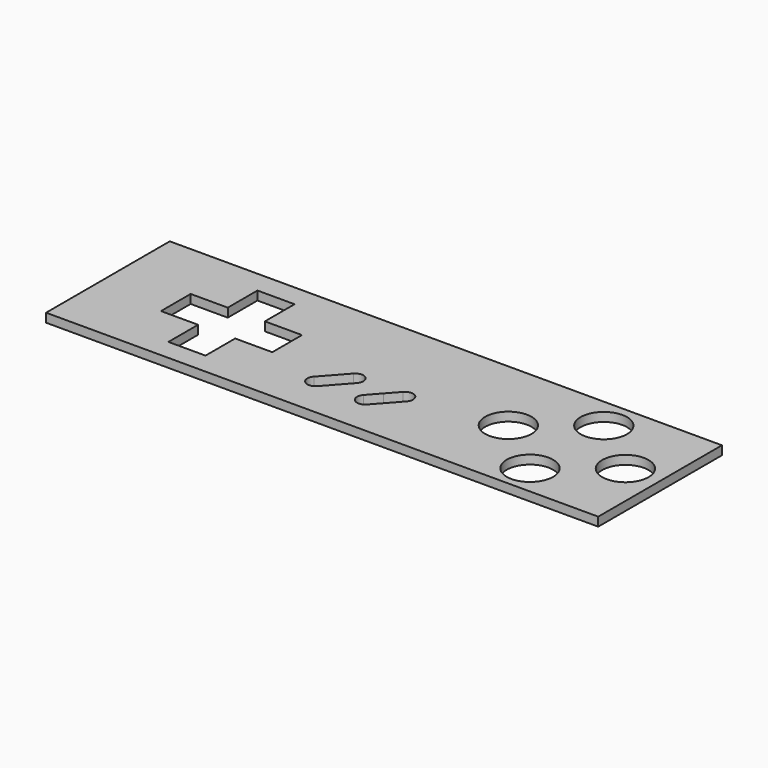
from build123d import *

# Parameters (mm, degrees)
F2_W     = 125
F2_H     = 35
F3_DEPTH = 2
F1_R     = 5.25
F4_DEPTH = 25


with BuildPart() as f3:
    # F2 (on Top) → F3 (new body)
    with BuildSketch(Plane.XY):
        with Locations((0, -41.33828)):
            Rectangle(F2_W, F2_H)
    extrude(amount=F3_DEPTH)

    # F1 (on Top) → F4 (cut)
    with BuildSketch(Plane.XY):
        with Locations((41.5, -31.013607)):
            Circle(F1_R)
        with Locations((54.75, -41.463607)):
            Circle(F1_R)
        with Locations((41.5, -51.913607)):
            Circle(F1_R)
        with Locations((28.25, -41.463607)):
            Circle(F1_R)
        with BuildLine():
            Line((3.356812, -45.7326), (0.994609, -48.3826))
            ThreePointArc((0.994609, -48.3826), (1.144588, -50.994593), (3.756581, -50.844614))
            Line((3.756581, -50.844614), (6.118784, -48.194614))
            Line((6.118784, -48.194614), (3.356812, -45.7326))
        make_face()
        with BuildLine():
            Line((5.719014, -43.0826), (3.356812, -45.7326))
            Line((3.356812, -45.7326), (6.118784, -48.194614))
            Line((6.118784, -48.194614), (8.480986, -45.544614))
            ThreePointArc((8.480986, -45.544614), (8.331007, -42.932621), (5.719014, -43.0826))
        make_face()
        with BuildLine():
            Line((-5.525986, -43.0826), (-10.250391, -48.3826))
            ThreePointArc((-10.250391, -48.3826), (-10.100412, -50.994593), (-7.488419, -50.844614))
            Line((-7.488419, -50.844614), (-2.764014, -45.544614))
            ThreePointArc((-2.764014, -45.544614), (-2.913993, -42.932621), (-5.525986, -43.0826))
        make_face()
        Polygon((-21.829405, -37.263607), (-30.229405, -37.263607), (-30.229405, -28.863607), (-38.629405, -28.863607), (-38.629405, -37.263607), (-47.029405, -37.263607), (-47.029405, -45.663607), (-38.629405, -45.663607), (-38.629405, -54.063607), (-30.229405, -54.063607), (-30.229405, -45.663607), (-21.829405, -45.663607), align=None)
    extrude(amount=F4_DEPTH, mode=Mode.SUBTRACT)


solid = f3.part
